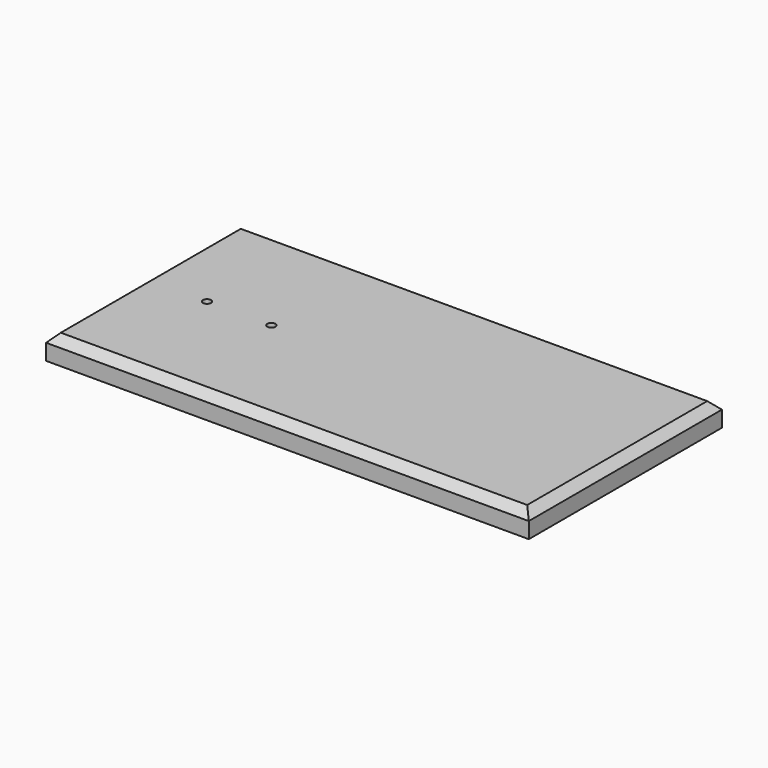
from build123d import *

# Parameters (mm, degrees)
F0_W     = 300
F0_H     = 150
F1_DEPTH = 15
F2_SIZE  = 5.08
F4_D     = 5


with BuildPart() as f1:
    # F0 (on Top) → F1 (new body)
    with BuildSketch(Plane.XY):
        with Locations((150, 75)):
            Rectangle(F0_W, F0_H)
    extrude(amount=F1_DEPTH)

    # F2
    f2_edges = [f1.edges().sort_by_distance(p)[0] for p in [
        (150, 0, 15),
        (300, 75, 15),
        (150, 150, 15),
        (0, 75, 15),
    ]]
    chamfer(f2_edges, length=F2_SIZE)

    # F4 (through all)
    with Locations(Plane(origin=(0, 0, 0), x_dir=(1, 0, 0), z_dir=(0, 0, -1))):
        with Locations((40, -75), (80, -75)):
            Hole(F4_D / 2)


solid = f1.part
